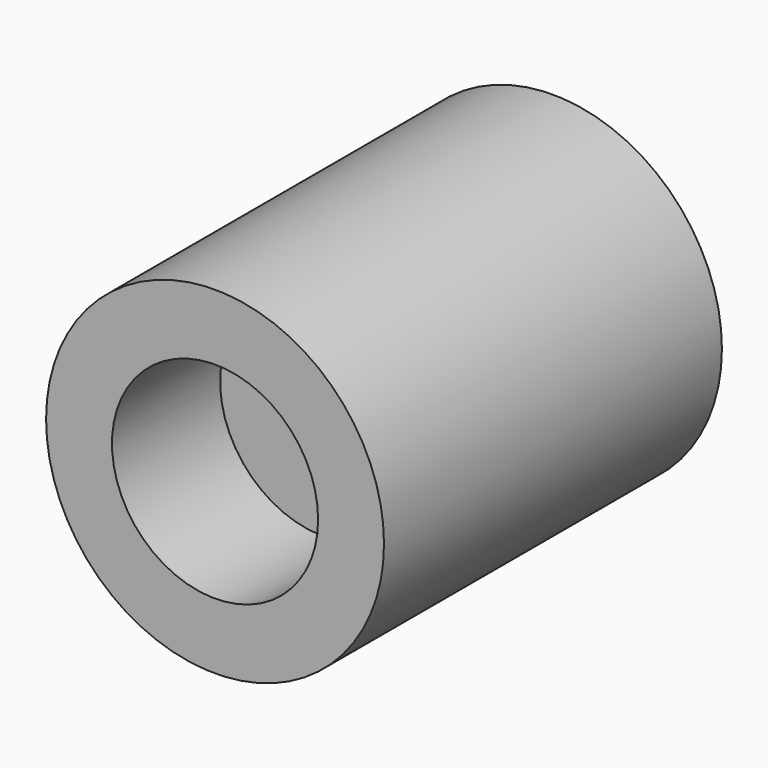
from build123d import *

# Parameters (mm, degrees)
F0_R     = 100
F0_R_2   = 61
F1_DEPTH = 250
F0_R_3   = 19
F2_DEPTH = 170
F3_R     = 30
F3_R_2   = 19
F4_DEPTH = 25


with BuildPart() as f1:
    # F0 (on Front) → F1 (new body)
    with BuildSketch(Plane.XZ):
        Circle(F0_R)
        Circle(F0_R_2, mode=Mode.SUBTRACT)
    extrude(amount=F1_DEPTH)

    # F0 (on Front) → F2 (join)
    with BuildSketch(Plane.XZ):
        Circle(F0_R_2)
        Circle(F0_R_3, mode=Mode.SUBTRACT)
    extrude(amount=F2_DEPTH)

    # F3 (on face) → F4 (cut)
    with BuildSketch(Plane(origin=(0, 0, 0), x_dir=(-1, 0, 0), z_dir=(0, 1, 0))):
        Circle(F3_R)
        Circle(F3_R_2, mode=Mode.SUBTRACT)
    extrude(amount=-F4_DEPTH, mode=Mode.SUBTRACT)


solid = f1.part
